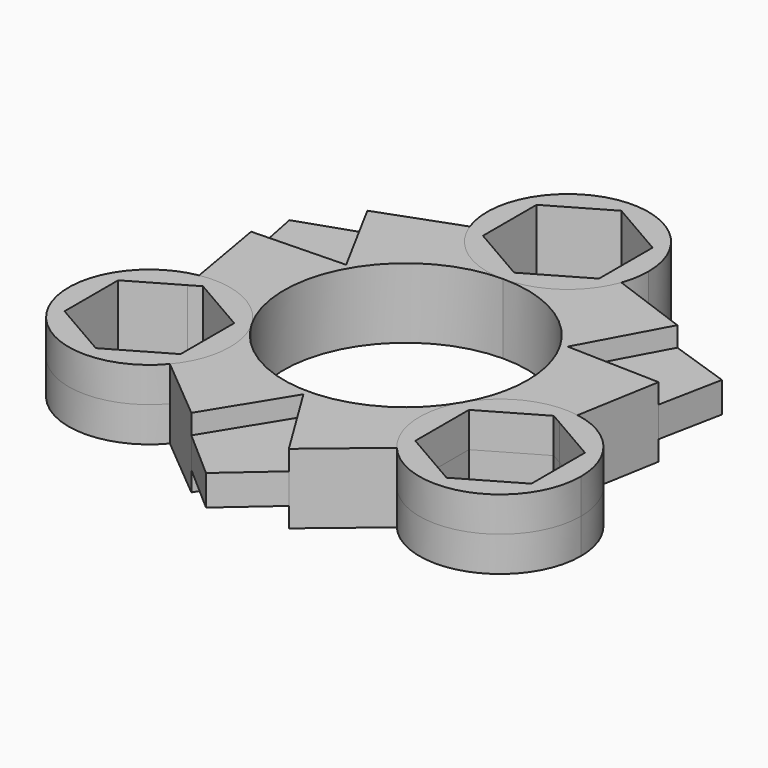
from build123d import *

# Parameters (mm, degrees)
F1_DEPTH = 5.75
F2_DEPTH = 2.5
F3_DEPTH = 5.75


with BuildPart() as f1:
    # F0 (on Top) → F1 (new body, symmetric)
    with BuildSketch(Plane.XY):
        with BuildLine():
            ThreePointArc((4.1e-09, 20), (10.0000000018, 17.3205080747), (17.3205080757, 10))
            Line((17.3205080757, 10), (18.1865334795, 10.5))
            Line((18.1865334795, 10.5), (25.4448637287, 23.9282032303))
            Line((25.4448637287, 23.9282032303), (12.4413728802, 28.6920683576))
            ThreePointArc((12.4413728802, 28.6920683576), (7.5884750046, 22.3882530362), (4.1e-09, 20))
        make_face()
        with BuildLine():
            ThreePointArc((17.3205080757, 10), (19.3185165258, 5.1763809021), (20, 0))
            ThreePointArc((20, 0), (19.3185165739, -5.1763807226), (17.3205082615, -9.9999996782))
            ThreePointArc((17.3205082615, -9.9999996782), (23.1830335444, -4.6223143104), (31.0687465249, -3.5714892066))
            Line((31.0687465249, -3.5714892066), (33.4448637287, 10.0717967697))
            Line((33.4448637287, 10.0717967697), (18.1865334795, 10.5))
            Line((18.1865334795, 10.5), (17.3205080757, 10))
        make_face()
    extrude(amount=F1_DEPTH, both=True)


with BuildPart() as f1b:
    # F0 (on Top) → F1, piece 2 (new body, symmetric)
    with BuildSketch(Plane.XY):
        with BuildLine():
            ThreePointArc((18.6273736447, -25.120579151), (15.5945583573, -17.7659384609), (17.3205082615, -9.9999996782))
            ThreePointArc((17.3205082615, -9.9999996782), (1.727e-07, -20), (-17.3205080887, -9.9999999774))
            ThreePointArc((-17.3205080887, -9.9999999774), (-15.9968274809, -13.1956476398), (-15.5453446758, -16.625))
            ThreePointArc((-15.5453446758, -16.625), (-16.3396609097, -21.1436770098), (-18.6273736447, -25.120579151))
            Line((-18.6273736447, -25.120579151), (-8, -34))
            Line((-8, -34), (0, -21))
            Line((0, -21), (8, -34))
            Line((8, -34), (18.6273736447, -25.120579151))
        make_face()
    extrude(amount=F1_DEPTH, both=True)


with BuildPart() as f1c:
    # F0 (on Top) → F1, piece 3 (new body, symmetric)
    with BuildSketch(Plane.XY):
        with BuildLine():
            ThreePointArc((-17.3205080887, -9.9999999774), (-17.3205080681, 10.0000000131), (4.1e-09, 20))
            ThreePointArc((4.1e-09, 20), (-7.5884750012, 22.3882530339), (-12.4413728802, 28.6920683576))
            Line((-12.4413728802, 28.6920683576), (-25.4448637287, 23.9282032303))
            Line((-25.4448637287, 23.9282032303), (-18.1865334795, 10.5))
            Line((-18.1865334795, 10.5), (-33.4448637287, 10.0717967697))
            Line((-33.4448637287, 10.0717967697), (-31.0687465249, -3.5714892066))
            ThreePointArc((-31.0687465249, -3.5714892066), (-23.183033388, -4.6223143835), (-17.3205080887, -9.9999999774))
        make_face()
    extrude(amount=F1_DEPTH, both=True)


with BuildPart() as f2:
    # F0 (on Top) → F2 (new body, symmetric)
    with BuildSketch(Plane.XY):
        Polygon((25.4448637287, 23.9282032303), (18.1865334795, 10.5), (29.4448637287, 17), (35.5070415552, 20.5), align=None)
        Polygon((35.5070415552, 20.5), (29.4448637287, 17), (33.4448637287, 10.0717967697), align=None)
        Polygon((29.4448637287, 17), (18.1865334795, 10.5), (33.4448637287, 10.0717967697), align=None)
    extrude(amount=F2_DEPTH, both=True)


with BuildPart() as f2b:
    # F0 (on Top) → F2, piece 2 (new body, symmetric)
    with BuildSketch(Plane.XY):
        Polygon((-18.1865334795, 10.5), (-25.4448637287, 23.9282032303), (-35.5070415552, 20.5), (-33.4448637287, 10.0717967697), align=None)
    extrude(amount=F2_DEPTH, both=True)


with BuildPart() as f2c:
    # F0 (on Top) → F2, piece 3 (new body, symmetric)
    with BuildSketch(Plane.XY):
        Polygon((0, -41), (8, -34), (0, -21), (-8, -34), align=None)
    extrude(amount=F2_DEPTH, both=True)


with BuildPart() as f3:
    # F0 (on Top) → F3 (new body, symmetric)
    with BuildSketch(Plane.XY):
        with BuildLine():
            ThreePointArc((42.0453446758, -16.625), (38.9364756409, -8.097399942), (31.0687465249, -3.5714892066))
            Line((31.0687465249, -3.5714892066), (30.6826971543, -5.7881231149))
            ThreePointArc((30.6826971543, -5.7881231149), (35.0952107159, -7.6077006329), (38.3216241175, -11.125))
            ThreePointArc((38.3216241175, -11.125), (39.420528765, -13.7779905039), (39.7953446758, -16.625))
            ThreePointArc((39.7953446758, -16.625), (39.420528765, -19.4720094961), (38.3216241175, -22.125))
            ThreePointArc((38.3216241175, -22.125), (34.2953446758, -26.1512794416), (28.7953446758, -27.625))
            ThreePointArc((28.7953446758, -27.625), (24.1360673704, -26.5894937147), (20.3540102349, -23.6779336348))
            Line((20.3540102349, -23.6779336348), (18.6273736447, -25.120579151))
            ThreePointArc((18.6273736447, -25.120579151), (33.3140216856, -29.0806837661), (42.0453446758, -16.625))
        make_face()
        with BuildLine():
            ThreePointArc((38.3216241175, -11.125), (35.0952107159, -7.6077006329), (30.6826971543, -5.7881231149))
            Line((30.6826971543, -5.7881231149), (30.5360738949, -6.6300104832))
            Line((30.5360738949, -6.6300104832), (38.3216241175, -11.125))
        make_face()
        with BuildLine():
            ThreePointArc((39.7953446758, -16.625), (39.420528765, -13.7779905039), (38.3216241175, -11.125))
            Line((38.3216241175, -11.125), (38.3216241175, -22.125))
            ThreePointArc((38.3216241175, -22.125), (39.420528765, -19.4720094961), (39.7953446758, -16.625))
        make_face()
        with BuildLine():
            Line((38.3216241175, -22.125), (28.7953446758, -27.625))
            ThreePointArc((28.7953446758, -27.625), (34.2953446758, -26.1512794416), (38.3216241175, -22.125))
        make_face()
        with BuildLine():
            Line((21.0097944532, -23.1300104832), (20.3540102349, -23.6779336348))
            ThreePointArc((20.3540102349, -23.6779336348), (24.1360673704, -26.5894937147), (28.7953446758, -27.625))
            Line((28.7953446758, -27.625), (21.0097944532, -23.1300104832))
        make_face()
        with BuildLine():
            ThreePointArc((19.2690652342, -11.125), (17.7953446758, -16.625), (19.2690652342, -22.125))
            Line((19.2690652342, -22.125), (19.2690652342, -11.125))
        make_face()
        with BuildLine():
            Line((19.2690652342, -11.125), (28.7953446758, -5.625))
            ThreePointArc((28.7953446758, -5.625), (23.2953446758, -7.0987205584), (19.2690652342, -11.125))
        make_face()
        with BuildLine():
            Line((30.5360738949, -6.6300104832), (30.6826971543, -5.7881231149))
            ThreePointArc((30.6826971543, -5.7881231149), (29.7425390234, -5.6658566545), (28.7953446758, -5.625))
            Line((28.7953446758, -5.625), (30.5360738949, -6.6300104832))
        make_face()
        with BuildLine():
            ThreePointArc((31.0687465249, -3.5714892066), (23.1830335444, -4.6223143104), (17.3205082615, -9.9999996782))
            ThreePointArc((17.3205082615, -9.9999996782), (15.5945583573, -17.7659384609), (18.6273736447, -25.120579151))
            Line((18.6273736447, -25.120579151), (20.3540102349, -23.6779336348))
            ThreePointArc((20.3540102349, -23.6779336348), (19.7780453087, -22.9248660401), (19.2690652342, -22.125))
            ThreePointArc((19.2690652342, -22.125), (17.7953446758, -16.625), (19.2690652342, -11.125))
            ThreePointArc((19.2690652342, -11.125), (23.2953446758, -7.0987205584), (28.7953446758, -5.625))
            ThreePointArc((28.7953446758, -5.625), (29.7425390234, -5.6658566545), (30.6826971543, -5.7881231149))
            Line((30.6826971543, -5.7881231149), (31.0687465249, -3.5714892066))
        make_face()
        with BuildLine():
            ThreePointArc((19.2690652342, -22.125), (19.7780453087, -22.9248660401), (20.3540102349, -23.6779336348))
            Line((20.3540102349, -23.6779336348), (21.0097944532, -23.1300104832))
            Line((21.0097944532, -23.1300104832), (19.2690652342, -22.125))
        make_face()
    extrude(amount=F3_DEPTH, both=True)


with BuildPart() as f3b:
    # F0 (on Top) → F3, piece 2 (new body, symmetric)
    with BuildSketch(Plane.XY):
        with BuildLine():
            Line((-19.2690652342, -11.125), (-19.2690652342, -22.125))
            ThreePointArc((-19.2690652342, -22.125), (-18.1701605867, -19.4720094961), (-17.7953446758, -16.625))
            ThreePointArc((-17.7953446758, -16.625), (-18.1701605867, -13.7779905039), (-19.2690652342, -11.125))
        make_face()
        with BuildLine():
            ThreePointArc((-15.5453446758, -16.625), (-15.9968274809, -13.1956476398), (-17.3205080887, -9.9999999774))
            ThreePointArc((-17.3205080887, -9.9999999774), (-23.183033388, -4.6223143835), (-31.0687465249, -3.5714892066))
            Line((-31.0687465249, -3.5714892066), (-30.6826971543, -5.7881231149))
            ThreePointArc((-30.6826971543, -5.7881231149), (-29.7425390234, -5.6658566545), (-28.7953446758, -5.625))
            ThreePointArc((-28.7953446758, -5.625), (-23.2953446758, -7.0987205584), (-19.2690652342, -11.125))
            ThreePointArc((-19.2690652342, -11.125), (-18.1701605867, -13.7779905039), (-17.7953446758, -16.625))
            ThreePointArc((-17.7953446758, -16.625), (-18.1701605867, -19.4720094961), (-19.2690652342, -22.125))
            ThreePointArc((-19.2690652342, -22.125), (-19.7780453087, -22.9248660401), (-20.3540102349, -23.6779336348))
            Line((-20.3540102349, -23.6779336348), (-18.6273736447, -25.120579151))
            ThreePointArc((-18.6273736447, -25.120579151), (-16.3396609097, -21.1436770098), (-15.5453446758, -16.625))
        make_face()
        with BuildLine():
            Line((-21.0097944532, -23.1300104832), (-20.3540102349, -23.6779336348))
            ThreePointArc((-20.3540102349, -23.6779336348), (-19.7780453087, -22.9248660401), (-19.2690652342, -22.125))
            Line((-19.2690652342, -22.125), (-21.0097944532, -23.1300104832))
        make_face()
        with BuildLine():
            Line((-30.6826971543, -5.7881231149), (-31.0687465249, -3.5714892066))
            ThreePointArc((-31.0687465249, -3.5714892066), (-40.270181276, -23.25), (-18.6273736447, -25.120579151))
            Line((-18.6273736447, -25.120579151), (-20.3540102349, -23.6779336348))
            ThreePointArc((-20.3540102349, -23.6779336348), (-24.1360673704, -26.5894937147), (-28.7953446758, -27.625))
            ThreePointArc((-28.7953446758, -27.625), (-34.2953446758, -26.1512794416), (-38.3216241175, -22.125))
            ThreePointArc((-38.3216241175, -22.125), (-39.7953446758, -16.625), (-38.3216241175, -11.125))
            ThreePointArc((-38.3216241175, -11.125), (-35.0952107159, -7.6077006329), (-30.6826971543, -5.7881231149))
        make_face()
        with BuildLine():
            ThreePointArc((-28.7953446758, -27.625), (-24.1360673704, -26.5894937147), (-20.3540102349, -23.6779336348))
            Line((-20.3540102349, -23.6779336348), (-21.0097944532, -23.1300104832))
            Line((-21.0097944532, -23.1300104832), (-28.7953446758, -27.625))
        make_face()
        with BuildLine():
            ThreePointArc((-38.3216241175, -22.125), (-34.2953446758, -26.1512794416), (-28.7953446758, -27.625))
            Line((-28.7953446758, -27.625), (-38.3216241175, -22.125))
        make_face()
        with BuildLine():
            Line((-38.3216241175, -22.125), (-38.3216241175, -11.125))
            ThreePointArc((-38.3216241175, -11.125), (-39.7953446758, -16.625), (-38.3216241175, -22.125))
        make_face()
        with BuildLine():
            Line((-30.5360738949, -6.6300104832), (-30.6826971543, -5.7881231149))
            ThreePointArc((-30.6826971543, -5.7881231149), (-35.0952107159, -7.6077006329), (-38.3216241175, -11.125))
            Line((-38.3216241175, -11.125), (-30.5360738949, -6.6300104832))
        make_face()
        with BuildLine():
            ThreePointArc((-28.7953446758, -5.625), (-29.7425390234, -5.6658566545), (-30.6826971543, -5.7881231149))
            Line((-30.6826971543, -5.7881231149), (-30.5360738949, -6.6300104832))
            Line((-30.5360738949, -6.6300104832), (-28.7953446758, -5.625))
        make_face()
        with BuildLine():
            ThreePointArc((-19.2690652342, -11.125), (-23.2953446758, -7.0987205584), (-28.7953446758, -5.625))
            Line((-28.7953446758, -5.625), (-19.2690652342, -11.125))
        make_face()
    extrude(amount=F3_DEPTH, both=True)


with BuildPart() as f3c:
    # F0 (on Top) → F3, piece 3 (new body, symmetric)
    with BuildSketch(Plane.XY):
        with BuildLine():
            ThreePointArc((-9.5262794416, 38.75), (-10.9591433455, 34.1971943476), (-10.3286869194, 29.4660567497))
            Line((-10.3286869194, 29.4660567497), (-9.5262794416, 29.7600209664))
            Line((-9.5262794416, 29.7600209664), (-9.5262794416, 38.75))
        make_face()
        with BuildLine():
            ThreePointArc((0, 44.25), (-5.5, 42.7762794416), (-9.5262794416, 38.75))
            Line((-9.5262794416, 38.75), (0, 44.25))
        make_face()
        with BuildLine():
            Line((-9.5262794416, 29.7600209664), (-10.3286869194, 29.4660567497))
            ThreePointArc((-10.3286869194, 29.4660567497), (-9.9644937147, 28.5907226946), (-9.5262794416, 27.75))
            Line((-9.5262794416, 27.75), (-9.5262794416, 29.7600209664))
        make_face()
        with BuildLine():
            Line((0, 22.25), (-9.5262794416, 27.75))
            ThreePointArc((-9.5262794416, 27.75), (-5.5, 23.7237205584), (0, 22.25))
        make_face()
        with BuildLine():
            ThreePointArc((-12.4413728802, 28.6920683576), (-7.5884750012, 22.3882530339), (4.1e-09, 20))
            ThreePointArc((4.1e-09, 20), (7.5884750046, 22.3882530362), (12.4413728802, 28.6920683576))
            Line((12.4413728802, 28.6920683576), (10.3286869194, 29.4660567497))
            ThreePointArc((10.3286869194, 29.4660567497), (9.9644937147, 28.5907226946), (9.5262794416, 27.75))
            ThreePointArc((9.5262794416, 27.75), (5.5, 23.7237205584), (0, 22.25))
            ThreePointArc((0, 22.25), (-5.5, 23.7237205584), (-9.5262794416, 27.75))
            ThreePointArc((-9.5262794416, 27.75), (-9.9644937147, 28.5907226946), (-10.3286869194, 29.4660567497))
            Line((-10.3286869194, 29.4660567497), (-12.4413728802, 28.6920683576))
        make_face()
        with BuildLine():
            ThreePointArc((0, 22.25), (5.5, 23.7237205584), (9.5262794416, 27.75))
            Line((9.5262794416, 27.75), (0, 22.25))
        make_face()
        with BuildLine():
            Line((9.5262794416, 29.7600209664), (10.3286869194, 29.4660567497))
            ThreePointArc((10.3286869194, 29.4660567497), (10.830871528, 31.328484467), (11, 33.25))
            ThreePointArc((11, 33.25), (10.6251840892, 36.0970094961), (9.5262794416, 38.75))
            Line((9.5262794416, 38.75), (9.5262794416, 29.7600209664))
        make_face()
        with BuildLine():
            ThreePointArc((13.25, 33.25), (-2.3145528011, 46.2962770678), (-12.4413728802, 28.6920683576))
            Line((-12.4413728802, 28.6920683576), (-10.3286869194, 29.4660567497))
            ThreePointArc((-10.3286869194, 29.4660567497), (-10.9591433455, 34.1971943476), (-9.5262794416, 38.75))
            ThreePointArc((-9.5262794416, 38.75), (-5.5, 42.7762794416), (0, 44.25))
            ThreePointArc((0, 44.25), (5.5, 42.7762794416), (9.5262794416, 38.75))
            ThreePointArc((9.5262794416, 38.75), (10.6251840892, 36.0970094961), (11, 33.25))
            ThreePointArc((11, 33.25), (10.830871528, 31.328484467), (10.3286869194, 29.4660567497))
            Line((10.3286869194, 29.4660567497), (12.4413728802, 28.6920683576))
            ThreePointArc((12.4413728802, 28.6920683576), (13.0462770678, 30.9354471989), (13.25, 33.25))
        make_face()
        with BuildLine():
            ThreePointArc((9.5262794416, 38.75), (5.5, 42.7762794416), (0, 44.25))
            Line((0, 44.25), (9.5262794416, 38.75))
        make_face()
        with BuildLine():
            ThreePointArc((9.5262794416, 27.75), (9.9644937147, 28.5907226946), (10.3286869194, 29.4660567497))
            Line((10.3286869194, 29.4660567497), (9.5262794416, 29.7600209664))
            Line((9.5262794416, 29.7600209664), (9.5262794416, 27.75))
        make_face()
    extrude(amount=F3_DEPTH, both=True)


solid = Compound([f1.part, f1b.part, f1c.part, f2.part, f2b.part, f2c.part, f3.part, f3b.part, f3c.part])
